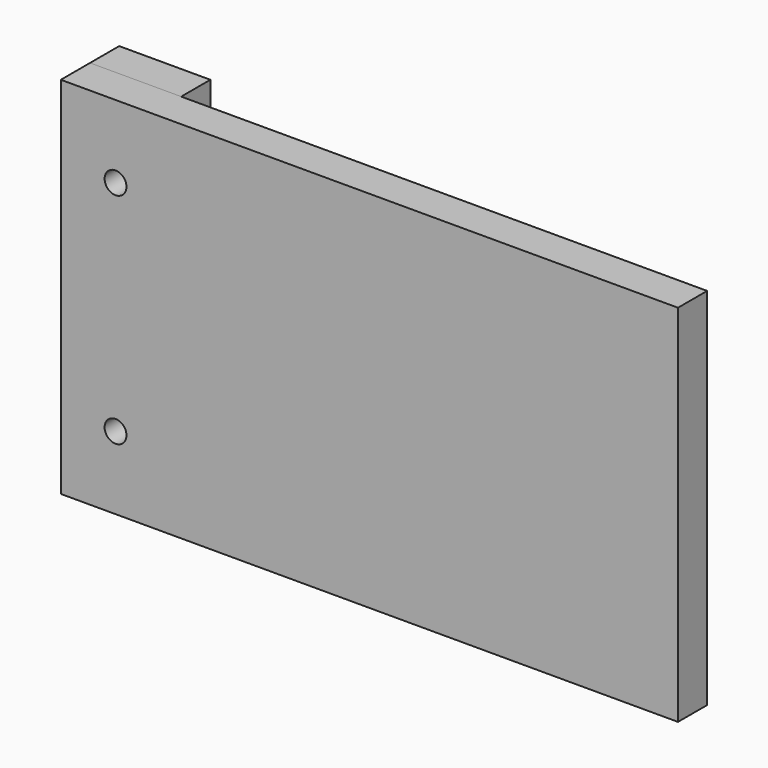
from build123d import *

# Parameters (mm, degrees)
F0_W     = 288.5
F0_H     = 200
F0_W_2   = 50
F0_R     = 6
F1_DEPTH = 20
F2_DEPTH = 20


with BuildPart() as f1:
    # F0 (on Front) → F1 (new body)
    with BuildSketch(Plane.XZ):
        with Locations((194.25, 100)):
            Rectangle(F0_W, F0_H)
        with Locations((25, 100)):
            Rectangle(F0_W_2, F0_H)
        with Locations((30, 40)):
            Circle(F0_R, mode=Mode.SUBTRACT)
        with Locations((30, 160)):
            Circle(F0_R, mode=Mode.SUBTRACT)
    extrude(amount=F1_DEPTH)


with BuildPart() as f2:
    # F0 (on Front) → F2 (new body)
    with BuildSketch(Plane.XZ):
        with Locations((25, 100)):
            Rectangle(F0_W_2, F0_H)
        with Locations((30, 40)):
            Circle(F0_R, mode=Mode.SUBTRACT)
        with Locations((30, 160)):
            Circle(F0_R, mode=Mode.SUBTRACT)
    extrude(amount=-F2_DEPTH)


solid = Compound([f1.part, f2.part])
